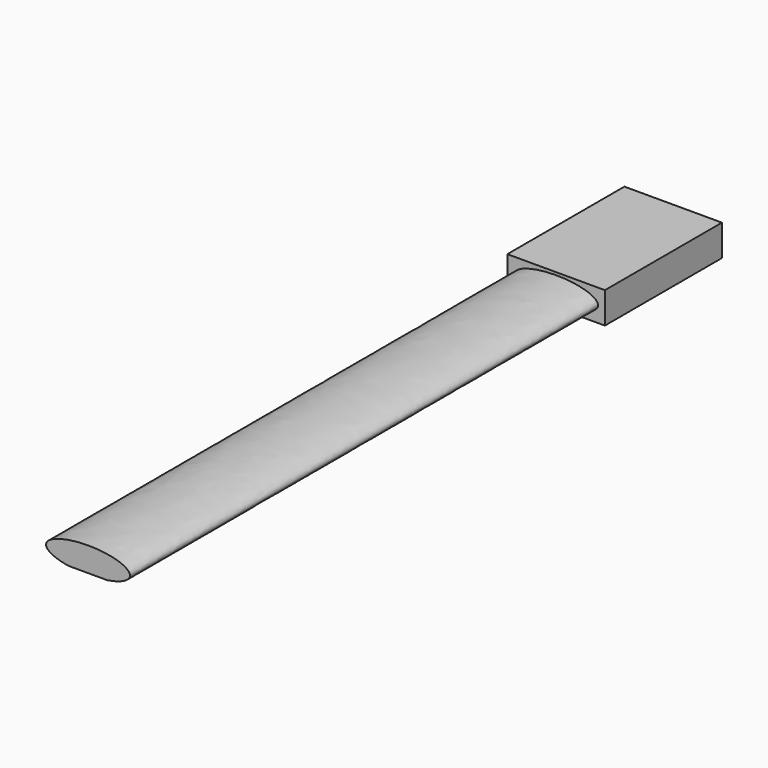
from build123d import *

# Parameters (mm, degrees)
F1_DEPTH = 60
F2_W     = 10
F2_H     = 3.2
F3_DEPTH = 15


with BuildPart() as f1:
    # F0 (on Front) → F1 (new body)
    with BuildSketch(Plane.XZ):
        with BuildLine():
            ThreePointArc((-1.3919410907, 0.15), (0, 1.4), (1.3919410907, 0.15))
            Line((1.3919410907, 0.15), (1.9873218668, 0.15))
            add(Edge.make_bspline(
                [(1.9873218668, 0.15), (8.7597120922, 1.2375949044), (2.2298560461, 2.4579206674), (-4.3, 3.6782464304), (-4.3, 1.325)],
                knots=[2.0512345985, 2.0512345985, 2.0512345985, 4.1672099529, 4.1672099529, 6.2831853072, 6.2831853072, 6.2831853072], degree=2, weights=[1, 0.4906265517, 1, 0.4906265517, 1]))
            add(Edge.make_bspline(
                [(-4.3, 1.325), (-4.3, 0.5213987041), (-1.9873218668, 0.15)],
                knots=[0, 0, 0, 1.090358055, 1.090358055, 1.090358055], degree=2, weights=[1, 0.855034466, 1]))
            Line((-1.9873218668, 0.15), (-1.3919410907, 0.15))
        make_face()
        with BuildLine():
            Line((0, 0.15), (1.3919410907, 0.15))
            ThreePointArc((1.3919410907, 0.15), (0, 1.4), (-1.3919410907, 0.15))
            Line((-1.3919410907, 0.15), (0, 0.15))
        make_face()
    extrude(amount=-F1_DEPTH)

    # F2 (on face) → F3 (join)
    with BuildSketch(Plane(origin=(0, 60, 0), x_dir=(-1, 0, 0), z_dir=(0, 1, 0))):
        with Locations((0, 1.325)):
            Rectangle(F2_W, F2_H)
        with BuildLine():
            Line((1.9873218668, 0.15), (-1.9873218668, 0.15))
            add(Edge.make_bspline(
                [(-1.9873218668, 0.15), (-3.316407652, 0.363441175), (-4.9942807704, 0.8860675131), (-5.0759742159, 1.6634506914), (-3.5113443481, 2.218430979), (-0.9483677441, 2.6974103558), (1.3719275195, 2.8684605031), (3.5713966428, 2.4868557618), (4.3, 1.7868260726), (4.3, 1.050157278), (4.0667716688, 0.7505644888), (3.5326948671, 0.4792166376), (2.7782896718, 0.277023477), (1.9873218668, 0.15)],
                knots=[2.0512345985, 2.0512345985, 2.0512345985, 2.0512345985, 2.0512345985, 2.0512345985, 4.1672099529, 4.1672099529, 4.1672099529, 4.1672099529, 6.2831853072, 6.2831853072, 6.2831853072, 6.2831853072, 7.542448178, 7.542448178, 7.542448178, 7.542448178, 7.542448178, 7.542448178], degree=5, weights=[1, 1, 0.8962154761, 0.8962154761, 1, 1, 0.8962154761, 0.8962154761, 1, 1, 0.9915939976, 0.9915939976, 1, 1]))
        make_face(mode=Mode.SUBTRACT)
        with BuildLine():
            add(Edge.make_bspline(
                [(-1.9873218668, 0.15), (-3.316407652, 0.363441175), (-4.9942807704, 0.8860675131), (-5.0759742159, 1.6634506914), (-3.5113443481, 2.218430979), (-0.9483677441, 2.6974103558), (1.3719275195, 2.8684605031), (3.5713966428, 2.4868557618), (4.3, 1.7868260726), (4.3, 1.050157278), (4.0667716688, 0.7505644888), (3.5326948671, 0.4792166376), (2.7782896718, 0.277023477), (1.9873218668, 0.15)],
                knots=[2.0512345985, 2.0512345985, 2.0512345985, 2.0512345985, 2.0512345985, 2.0512345985, 4.1672099529, 4.1672099529, 4.1672099529, 4.1672099529, 6.2831853072, 6.2831853072, 6.2831853072, 6.2831853072, 7.542448178, 7.542448178, 7.542448178, 7.542448178, 7.542448178, 7.542448178], degree=5, weights=[1, 1, 0.8962154761, 0.8962154761, 1, 1, 0.8962154761, 0.8962154761, 1, 1, 0.9915939976, 0.9915939976, 1, 1]))
            Line((-1.9873218668, 0.15), (1.9873218668, 0.15))
        make_face()
    extrude(amount=F3_DEPTH)


solid = f1.part
